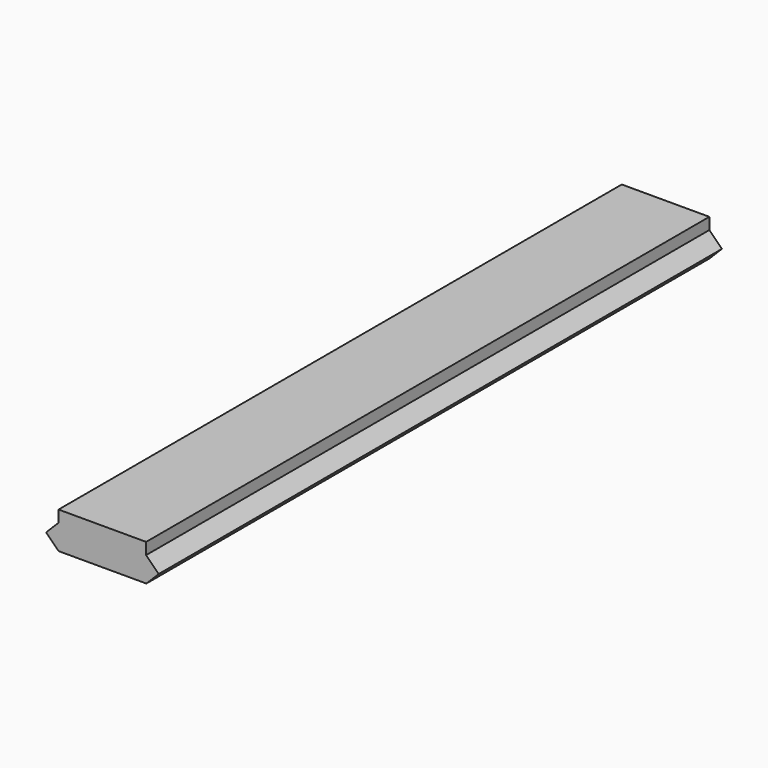
from build123d import *

# Parameters (mm, degrees)
F0_W     = 14.2189519829
F0_H     = 1.890757619
F0_H_2   = 2.0333368387
F1_DEPTH = 114.3


with BuildPart() as f1:
    # F0 (on Front) → F1 (new body)
    with BuildSketch(Plane.XZ):
        with Locations((-7.9704963428, 15.7871946997)):
            Rectangle(F0_W, F0_H)
        Polygon((-15.0799723342, 14.8418158902), (-17.1057041379, 12.8084790515), (-15.0799723342, 12.8084790515), align=None)
        Polygon((-15.0799723342, 12.8084790515), (-17.1057041379, 12.8084790515), (-15.0799723342, 10.7903238386), align=None)
        Polygon((-0.8610203513, 14.8418158902), (-0.8610203513, 12.8084790515), (1.1822958621, 12.8084790515), align=None)
        Polygon((1.1822958621, 12.8084790515), (-0.8610203513, 12.8084790515), (-0.8260028602, 10.7903238386), align=None)
        Polygon((-0.8610203513, 12.8084790515), (-15.0799723342, 12.8084790515), (-15.0799723342, 10.7903238386), (-0.8260028602, 10.7903238386), align=None)
        with Locations((-7.9704963428, 13.8251474708)):
            Rectangle(F0_W, F0_H_2)
    extrude(amount=F1_DEPTH)


solid = f1.part
